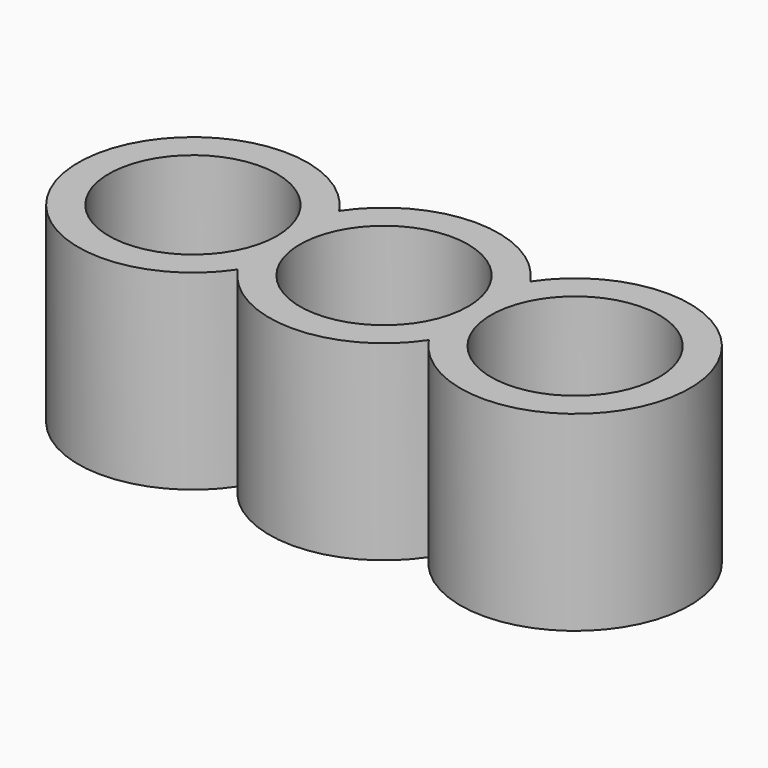
from build123d import *

# Parameters (mm, degrees)
F0_R     = 11
F1_DEPTH = 25


with BuildPart() as f1:
    # F0 (on Top) → F1 (new body)
    with BuildSketch(Plane.XY):
        with BuildLine():
            ThreePointArc((-12.5, 8.291562), (-40, 0), (-12.5, -8.291562))
            ThreePointArc((-12.5, -8.291562), (0, -15), (12.5, -8.291562))
            ThreePointArc((12.5, -8.291562), (40, 0), (12.5, 8.291562))
            ThreePointArc((12.5, 8.291562), (0, 15), (-12.5, 8.291562))
        make_face()
        with Locations((-25, 0)):
            Circle(F0_R, mode=Mode.SUBTRACT)
        with BuildLine():
            ThreePointArc((-11, 0), (0, 11), (11, 0))
            ThreePointArc((11, 0), (0, -11), (-11, 0))
        make_face(mode=Mode.SUBTRACT)
        with Locations((25, 0)):
            Circle(F0_R, mode=Mode.SUBTRACT)
    extrude(amount=F1_DEPTH)


solid = f1.part
